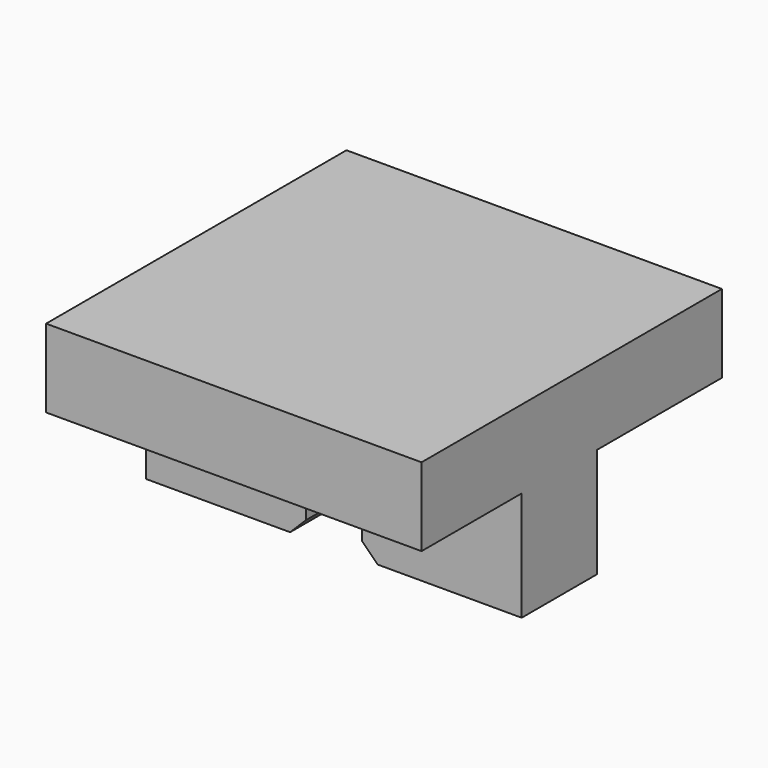
from build123d import *

# Parameters (mm, degrees)
F0_W     = 24
F0_H     = 10
F1_DEPTH = 24
F2_W     = 24
F2_H     = 5
F3_DEPTH = 8
F5_DEPTH = 24.001
F7_DEPTH = 10
F8_W     = 10.2
F8_H     = 2
F9_DEPTH = 6
F10_SIZE = 1


with BuildPart() as f1:
    # F0 (on Front) → F1 (new body)
    with BuildSketch(Plane.XZ):
        Rectangle(F0_W, F0_H)
    extrude(amount=F1_DEPTH)

    # F2 (on face) → F3 (cut)
    with BuildSketch(Plane.XZ.offset(24)):
        with Locations((0, -2.5)):
            Rectangle(F2_W, F2_H)
    extrude(amount=-F3_DEPTH, mode=Mode.SUBTRACT)

    # F4 (on face) → F5 (cut, through all)
    with BuildSketch(Plane(origin=(0, 0, 0), x_dir=(-1, 0, 0), z_dir=(0, 1, 0))):
        with BuildLine():
            Line((-1.8, -5), (1.8, -5))
            add(Edge.make_bspline(
                [(1.8, -5), (1.8, -3.05), (0, -3.05), (-1.8, -3.05), (-1.8, -5)],
                knots=[4.7123889804, 4.7123889804, 4.7123889804, 6.2831853072, 6.2831853072, 7.853981634, 7.853981634, 7.853981634], degree=2, weights=[1, 0.7071067812, 1, 0.7071067812, 1]))
        make_face()
    extrude(amount=-F5_DEPTH, mode=Mode.SUBTRACT)

    # F6 (on face) → F7 (cut)
    with BuildSketch(Plane(origin=(0, 0, 0), x_dir=(-1, 0, 0), z_dir=(0, 1, 0))):
        Polygon((-1.8, -5), (1.8, -5), (12, -5), (12, 0), (-12, 0), (-12, -5), align=None)
    extrude(amount=-F7_DEPTH, mode=Mode.SUBTRACT)

    # F8 (on face) → F9 (join, through all)
    with BuildSketch(Plane.XZ.offset(16)):
        with Locations((-6.9, -6)):
            Rectangle(F8_W, F8_H)
        with Locations((6.9, -6)):
            Rectangle(F8_W, F8_H)
    extrude(amount=-F9_DEPTH)

    # F10
    f10_edges = [f1.edges().sort_by_distance(p)[0] for p in [
        (-1.8, -13, -7),
        (1.8, -13, -7),
    ]]
    chamfer(f10_edges, length=F10_SIZE)


solid = f1.part
